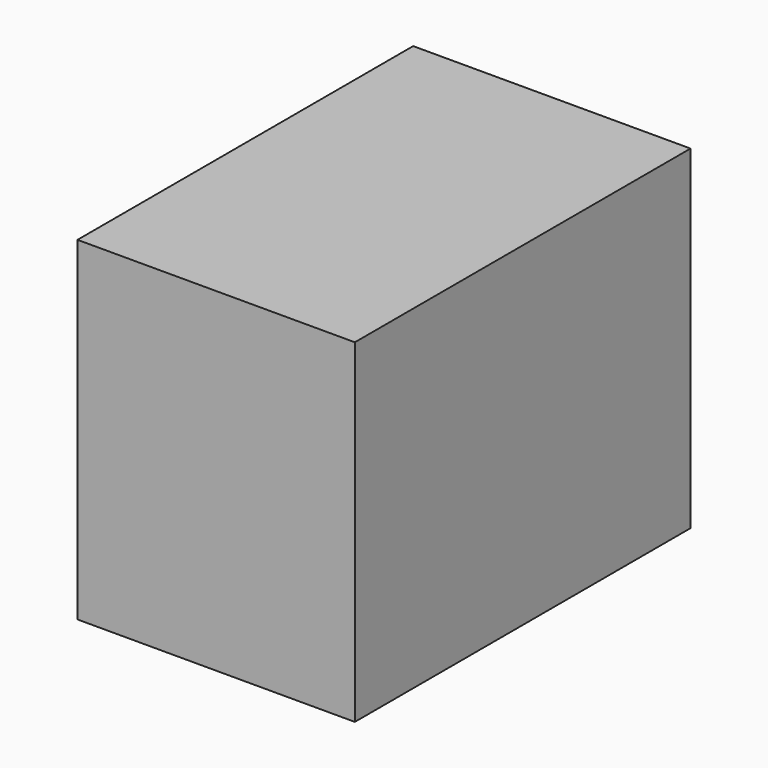
from build123d import *

# Parameters (mm, degrees)
F0_W     = 990.6
F0_H     = 1498.6
F1_DEPTH = 1193.8
F2_W     = 939.8
F2_H     = 1447.8
F3_DEPTH = 1092.2


with BuildPart() as f1:
    # F0 (on Top) → F1 (new body)
    with BuildSketch(Plane.XY):
        Rectangle(F0_W, F0_H)
    extrude(amount=F1_DEPTH)

    # F2 (on face) → F3 (cut)
    with BuildSketch(Plane(origin=(0, 0, 0), x_dir=(1, 0, 0), z_dir=(0, 0, -1))):
        Rectangle(F2_W, F2_H)
    extrude(amount=-F3_DEPTH, mode=Mode.SUBTRACT)


solid = f1.part
